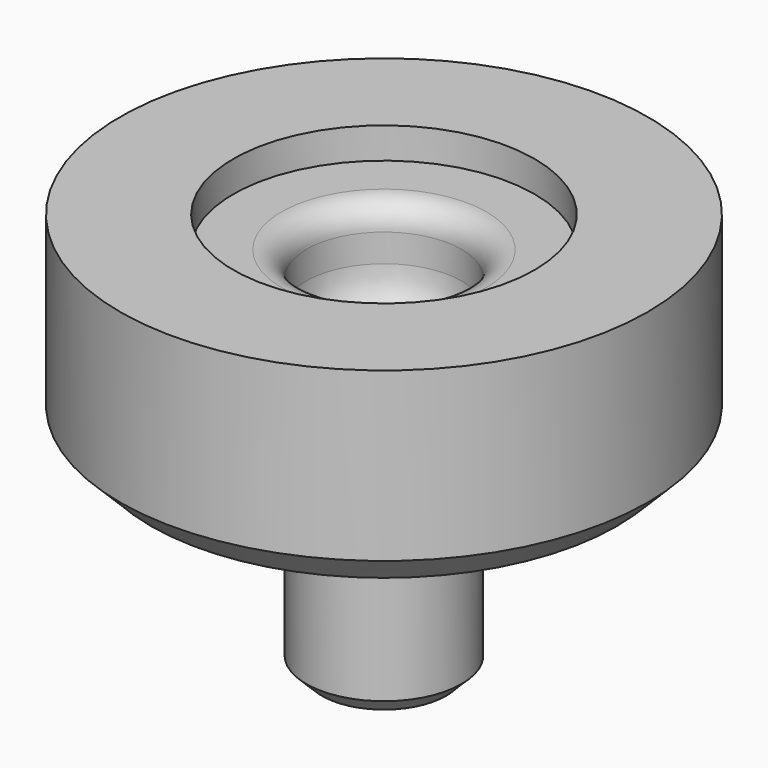
from build123d import *

# Parameters (mm, degrees)
F2_SIZE = 1
F3_SIZE = 0.5


with BuildPart() as f1:
    # F0 (on Front) → F1 (revolve)
    with BuildSketch(Plane.XZ):
        with BuildLine():
            Line((4.85, 5.4), (3.3, 5.4))
            ThreePointArc((3.3, 5.4), (2.734315, 5.165685), (2.5, 4.6))
            Line((2.5, 4.6), (2.5, 3.7))
            ThreePointArc((2.5, 3.7), (1.972792, 2.427208), (0.7, 1.9))
            Line((0.7, 1.9), (0, 1.9))
            Line((0, 1.9), (0, -6.6))
            Line((0, -6.6), (2.5, -6.6))
            Line((2.5, -6.6), (2.5, 0))
            Line((2.5, 0), (8.5, 0))
            Line((8.5, 0), (8.5, 6.4))
            Line((8.5, 6.4), (4.85, 6.4))
            Line((4.85, 6.4), (4.85, 5.4))
        make_face()
    revolve(axis=Axis((0, 0, -2.35), (0, 0, -1)))

    # F2
    f2_edges = [f1.edges().sort_by_distance(p)[0] for p in [
        (-8.5, 0, 0),
    ]]
    chamfer(f2_edges, length=F2_SIZE)

    # F3
    f3_edges = [f1.edges().sort_by_distance(p)[0] for p in [
        (-2.5, 0, -6.6),
    ]]
    chamfer(f3_edges, length=F3_SIZE)


solid = f1.part
